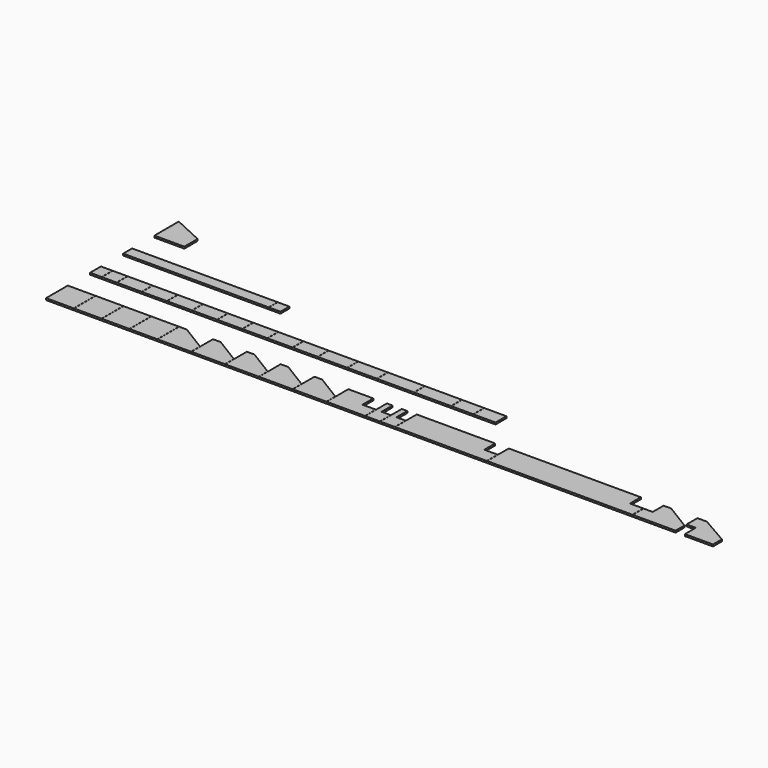
from build123d import *

# Parameters (mm, degrees)
F0_W     = 398
F0_H     = 390
F0_W_2   = 167
F0_H_2   = 195
F0_W_3   = 212
F0_W_4   = 359
F0_W_5   = 424
F0_W_6   = 530
F0_W_7   = 318
F0_W_8   = 2090
F0_H_3   = 160
F1_DEPTH = 26


with BuildPart() as f1:
    # F0 (on Top) → F1 (new body)
    with BuildSketch(Plane.XY):
        with Locations((199, 195)):
            Rectangle(F0_W, F0_H)
        with Locations((599, 195)):
            Rectangle(F0_W, F0_H)
        with Locations((999, 195)):
            Rectangle(F0_W, F0_H)
        with Locations((1399, 195)):
            Rectangle(F0_W, F0_H)
        Polygon((1710, 390), (1600, 390), (1600, 0), (2084, 0), (2084, 160), align=None)
        Polygon((2196, 390), (2086, 390), (2086, 0), (2570, 0), (2570, 160), align=None)
        Polygon((2682, 390), (2572, 390), (2572, 0), (3056, 0), (3056, 160), align=None)
        Polygon((3168, 390), (3058, 390), (3058, 0), (3542, 0), (3542, 160), align=None)
        Polygon((3654, 390), (3544, 390), (3544, 0), (4028, 0), (4028, 160), align=None)
        with Locations((83.5, 887.5)):
            Rectangle(F0_W_2, F0_H_2)
        with Locations((275, 887.5)):
            Rectangle(F0_W_3, F0_H_2)
        with Locations((562.5, 887.5)):
            Rectangle(F0_W_4, F0_H_2)
        with Locations((923.5, 887.5)):
            Rectangle(F0_W_4, F0_H_2)
        with Locations((1284.5, 887.5)):
            Rectangle(F0_W_4, F0_H_2)
        with Locations((1645.5, 887.5)):
            Rectangle(F0_W_4, F0_H_2)
        with Locations((2006.5, 887.5)):
            Rectangle(F0_W_4, F0_H_2)
        with Locations((2367.5, 887.5)):
            Rectangle(F0_W_4, F0_H_2)
        with Locations((2728.5, 887.5)):
            Rectangle(F0_W_4, F0_H_2)
        with Locations((3089.5, 887.5)):
            Rectangle(F0_W_4, F0_H_2)
        with Locations((3483, 887.5)):
            Rectangle(F0_W_5, F0_H_2)
        with Locations((3909, 887.5)):
            Rectangle(F0_W_5, F0_H_2)
        with Locations((4388, 887.5)):
            Rectangle(F0_W_6, F0_H_2)
        with Locations((4920, 887.5)):
            Rectangle(F0_W_6, F0_H_2)
        with Locations((5346, 887.5)):
            Rectangle(F0_W_7, F0_H_2)
        with Locations((5666, 887.5)):
            Rectangle(F0_W_7, F0_H_2)
        Polygon((4030, 390), (4030, 0), (4582, 0), (4582, 195), (4389, 195), (4389, 390), align=None)
        Polygon((4584, 390), (4584, 0), (4796, 0), (4796, 195), (4664, 195), (4664, 390), align=None)
        Polygon((4878, 390), (4798, 390), (4798, 0), (5010, 0), (5010, 195), (4878, 195), align=None)
        Polygon((5012, 390), (5012, 0), (6333, 0), (6333, 195), (6140, 195), (6140, 390), align=None)
        Polygon((6335, 390), (6335, 0), (8425, 0), (8425, 195), (8232, 195), (8232, 390), align=None)
        with Locations((1045, 1465)):
            Rectangle(F0_W_8, F0_H_3)
        Polygon((8427, 195), (8427, 0), (9043, 0), (9043, 160), (8669, 390), (8559, 390), (8559, 195), align=None)
        Polygon((9177, 195), (9177, 0), (9581, 0), (9581, 160), (9181, 390), (9045, 390), (9045, 195), align=None)
        Polygon((0, 2383), (0, 1945), (430, 1945), (430, 2184), align=None)
        with Locations((2175.5, 1465)):
            Rectangle(F0_W_2, F0_H_3)
    extrude(amount=F1_DEPTH)


solid = f1.part
